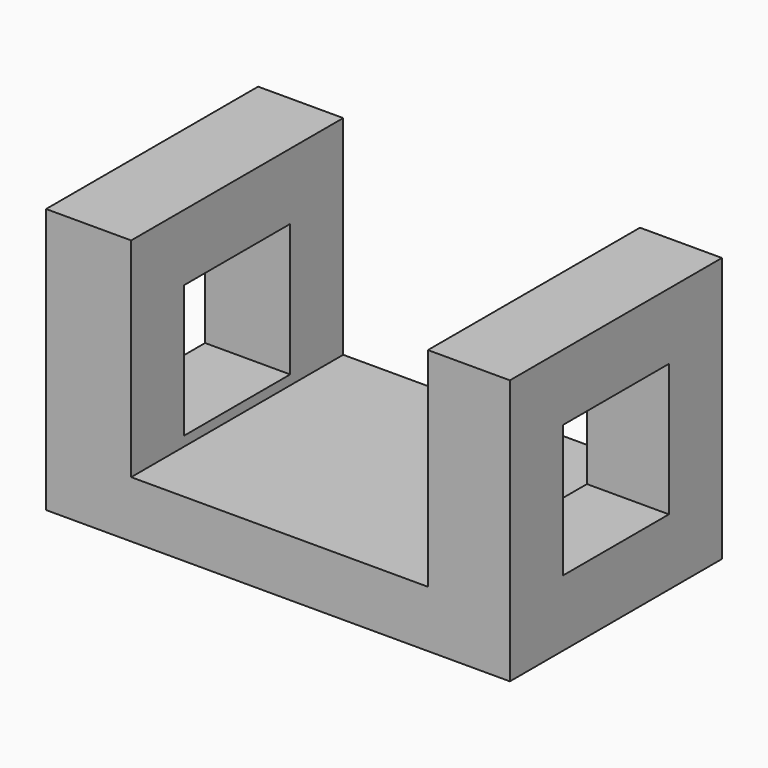
from build123d import *

# Parameters (mm, degrees)
F0_W     = 50.8
F0_H     = 50.8
F0_W_2   = 25.4
F0_H_2   = 25.4
F1_DEPTH = 88.9
F2_W     = 56.879024
F2_H     = 39.945584
F3_DEPTH = 50.8


with BuildPart() as f1:
    # F0 (on Right) → F1 (new body)
    with BuildSketch(Plane.YZ):
        with Locations((-2.20958, 0)):
            Rectangle(F0_W, F0_H)
        with Locations((-2.20958, 0)):
            Rectangle(F0_W_2, F0_H_2, mode=Mode.SUBTRACT)
    extrude(amount=F1_DEPTH)

    # F2 (on face) → F3 (cut)
    with BuildSketch(Plane.XZ.offset(27.60958)):
        with Locations((44.750276, 5.427208)):
            Rectangle(F2_W, F2_H)
    extrude(amount=-F3_DEPTH, mode=Mode.SUBTRACT)


solid = f1.part
